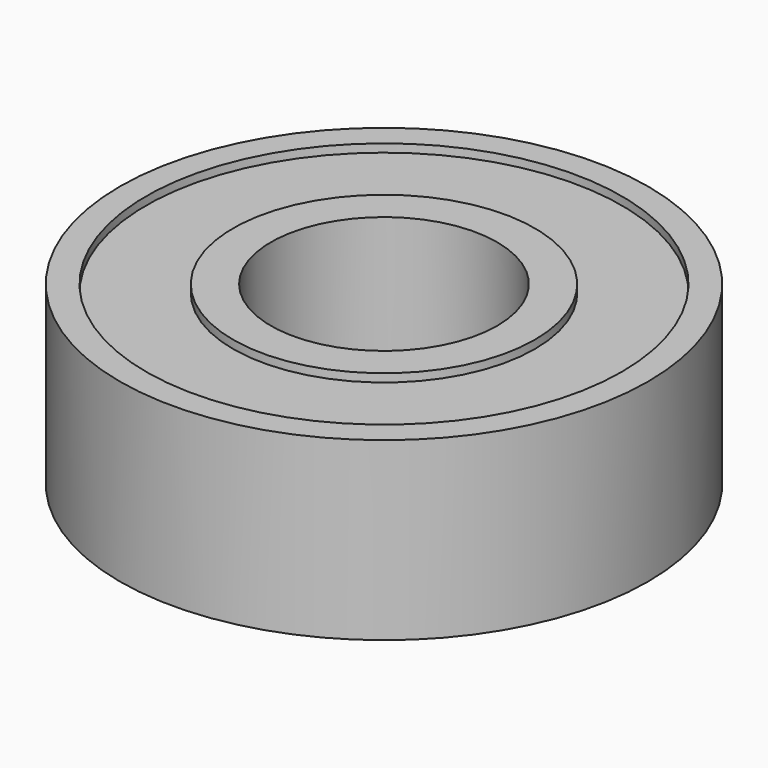
from build123d import *

# Parameters (mm, degrees)
F0_R      = 10.500004
F1_DEPTH  = 3.499993
F2_R      = 9.45496
F3_DEPTH  = 25.4
F4_R      = 9.45496
F5_DEPTH  = 3.175
F6_R      = 6.000001
F7_DEPTH  = 3.499993
F8_T      = -1.9558
F9_R      = 4.500004
F10_DEPTH = 2514.6


with BuildPart() as f1:
    # F0 (on Top) → F1 (new body)
    with BuildSketch(Plane.XY):
        Circle(F0_R)
    extrude(amount=F1_DEPTH)

    # F2 (on face) → F3 (cut)
    with BuildSketch(Plane.XY.offset(3.499993)):
        Circle(F2_R)
    extrude(amount=-F3_DEPTH, mode=Mode.SUBTRACT)

    # F4 (on Top) → F5 (join)
    with BuildSketch(Plane.XY):
        Circle(F4_R)
    extrude(amount=F5_DEPTH)

    # F6 (on Top) → F7 (join)
    with BuildSketch(Plane.XY):
        Circle(F6_R)
    extrude(amount=F7_DEPTH)

    # F8
    f8_openings = [f1.faces().sort_by_distance(p)[0] for p in [
        (0, 0, 3.499993),
    ]]
    offset(amount=F8_T, openings=f8_openings)

    # F9 (on Top) → F10 (cut)
    with BuildSketch(Plane.XY):
        Circle(F9_R)
    extrude(amount=F10_DEPTH, mode=Mode.SUBTRACT)

    # F11: F1 across plane


with BuildPart() as f1_1:
    add(f1.part)
    add(f1.part.mirror(Plane.XY))


solid = f1_1.part
